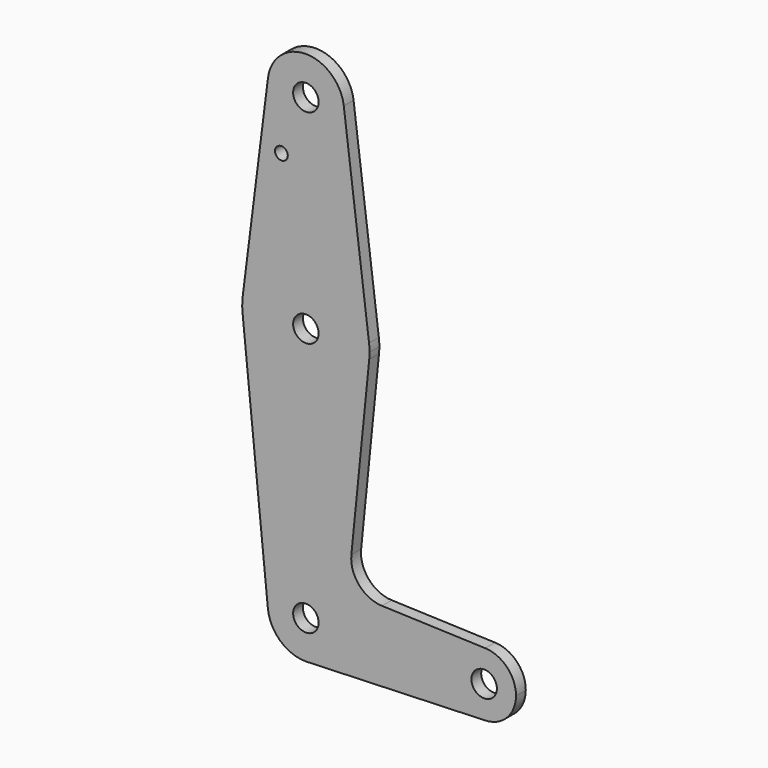
from build123d import *

# Parameters (mm, degrees)
F0_R     = 3.175
F0_R_2   = 1.5875
F1_DEPTH = 3.048


with BuildPart() as f1:
    # F0 (on Front) → F1 (new body)
    with BuildSketch(Plane.XZ):
        with BuildLine():
            ThreePointArc((0, -9.525), (0.3388863295, -9.5189695375), (0.6773435479, -9.500885786))
            Line((0.6773435479, -9.500885786), (0, -9.525))
        make_face()
        with BuildLine():
            ThreePointArc((9.4502929642, 115.490625), (0, 123.825), (-9.4502929642, 115.490625))
            ThreePointArc((-9.4502929642, 115.490625), (-0.596483242, 104.7936951058), (9.525, 114.3))
            ThreePointArc((9.525, 114.3), (9.5063048942, 114.896483242), (9.4502929642, 115.490625))
        make_face()
        with Locations((0, 114.3)):
            Circle(F0_R, mode=Mode.SUBTRACT)
        with BuildLine():
            ThreePointArc((44.7334821429, 7.9324362036), (36.5125000183, 0.0005387766), (44.7324052746, -7.9324746146))
            ThreePointArc((44.7324052746, -7.9324746146), (50.1616327839, -5.5119104847), (52.3875, 0))
            ThreePointArc((52.3875, 0), (50.1620069047, 5.5115227815), (44.7334821429, 7.9324362036))
        make_face()
        with Locations((44.45, 0)):
            Circle(F0_R, mode=Mode.SUBTRACT)
        with BuildLine():
            ThreePointArc((0.6773435479, -9.500885786), (6.9705567315, -6.4912990883), (9.525, 0))
            ThreePointArc((9.525, 0), (-0.4768479324, 9.5130563464), (-9.4772553384, -0.9525))
            ThreePointArc((-9.4772553384, -0.9525), (-6.3895642457, -7.063929059), (0, -9.525))
            Line((0, -9.525), (0.6773435479, -9.500885786))
        make_face()
        Circle(F0_R, mode=Mode.SUBTRACT)
        with BuildLine():
            ThreePointArc((-9.4772553384, -0.9525), (-0.4768479324, 9.5130563464), (9.525, 0))
            ThreePointArc((9.525, 0), (6.9705567315, -6.4912990883), (0.6773435479, -9.500885786))
            Line((0.6773435479, -9.500885786), (44.7324052746, -7.9324746146))
            ThreePointArc((44.7324052746, -7.9324746146), (36.5125000183, 0.0005387766), (44.7334821429, 7.9324362036))
            Line((44.7334821429, 7.9324362036), (18.9676000005, 8.8532337108))
            ThreePointArc((18.9676000005, 8.8532337108), (13.2611998974, 11.5713591498), (11.3411865923, 17.5933818124))
            Line((11.3411865923, 17.5933818124), (15.7954255641, 61.9125))
            ThreePointArc((15.7954255641, 61.9125), (0, 47.625), (-15.7954255641, 61.9125))
            Line((-15.7954255641, 61.9125), (-9.4772553384, -0.9525))
        make_face()
        with BuildLine():
            ThreePointArc((-15.7504882737, 65.484375), (-15.8737438155, 63.6997054867), (-15.7954255641, 61.9125))
            ThreePointArc((-15.7954255641, 61.9125), (0, 47.625), (15.7954255641, 61.9125))
            ThreePointArc((15.7954255641, 61.9125), (15.8550939106, 62.7052534459), (15.875, 63.5))
            ThreePointArc((15.875, 63.5), (15.8438414904, 64.4941387366), (15.7504882737, 65.484375))
            ThreePointArc((15.7504882737, 65.484375), (0, 79.375), (-15.7504882737, 65.484375))
        make_face()
        with Locations((0, 63.5)):
            Circle(F0_R, mode=Mode.SUBTRACT)
        with BuildLine():
            Line((-9.4502929642, 115.490625), (-15.7504882737, 65.484375))
            ThreePointArc((-15.7504882737, 65.484375), (0, 79.375), (15.7504882737, 65.484375))
            Line((15.7504882737, 65.484375), (9.4502929642, 115.490625))
            ThreePointArc((9.4502929642, 115.490625), (9.5063048942, 114.896483242), (9.525, 114.3))
            ThreePointArc((9.525, 114.3), (-0.596483242, 104.7936951058), (-9.4502929642, 115.490625))
        make_face()
        with Locations((-6.1006117612, 100.0252)):
            Circle(F0_R_2, mode=Mode.SUBTRACT)
    extrude(amount=F1_DEPTH)


solid = f1.part
